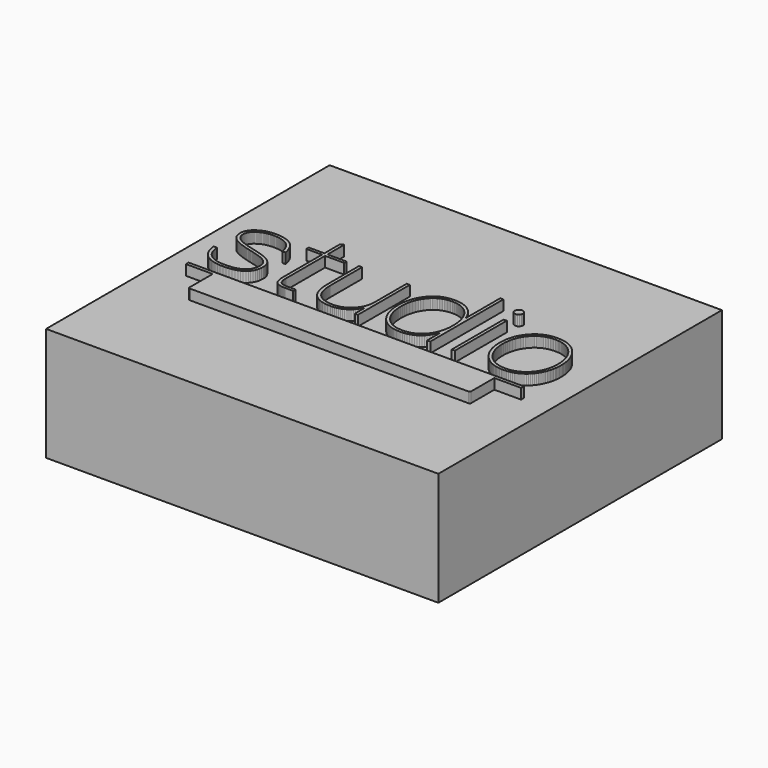
from build123d import *

# Parameters (mm, degrees)
F0_W     = 0.903268
F0_H     = 18.857183
F1_DEPTH = 3
F2_W     = 114
F2_H     = 103
F3_DEPTH = 33


with BuildPart() as f1:
    # F0 (on Top) → F1 (new body)
    with BuildSketch(Plane.XY):
        Polygon((-23.683748, -6.406338), (-23.533256, -6.406338), (-21.275875, -6.406338), (-21.275875, -5.530917), (-23.533256, -5.530917), (-23.683748, -5.530917), (-23.88395, -5.528353), (-24.075328, -5.52066), (-24.257882, -5.507837), (-24.431612, -5.489886), (-24.596519, -5.466806), (-24.752604, -5.438597), (-24.899865, -5.405258), (-25.038304, -5.36679), (-25.167921, -5.323192), (-25.288717, -5.274465), (-25.40069, -5.220609), (-25.503843, -5.161623), (-25.598175, -5.097507), (-25.683686, -5.028261), (-25.760376, -4.953885), (-25.828247, -4.87438), (-25.8966, -4.788462), (-25.960544, -4.694852), (-26.020081, -4.593548), (-26.075208, -4.484551), (-26.125927, -4.36786), (-26.172237, -4.243476), (-26.214137, -4.111398), (-26.251628, -3.971626), (-26.284709, -3.824161), (-26.31338, -3.669002), (-26.337641, -3.506149), (-26.357492, -3.335601), (-26.372931, -3.15736), (-26.38396, -2.971424), (-26.390577, -2.777794), (-26.392783, -2.57647), (-26.392783, -1.691977), (-26.392783, 11.575425), (-20.824488, 11.575425), (-20.824488, 12.450845), (-26.392783, 12.450845), (-26.392783, 18.542096), (-27.295556, 18.140912), (-27.295556, 12.450845), (-31.847923, 12.450845), (-31.847923, 11.575425), (-27.295556, 11.575425), (-27.295556, -1.691977), (-27.295556, -2.57647), (-27.292913, -2.811978), (-27.284981, -3.039739), (-27.271761, -3.2597), (-27.253253, -3.471807), (-27.229454, -3.676007), (-27.200365, -3.872247), (-27.165985, -4.060472), (-27.126313, -4.24063), (-27.081349, -4.412666), (-27.031092, -4.576528), (-26.975541, -4.732161), (-26.914696, -4.879513), (-26.848557, -5.018529), (-26.777121, -5.149157), (-26.700389, -5.271342), (-26.618361, -5.385032), (-26.514306, -5.504696), (-26.399672, -5.617415), (-26.274458, -5.723081), (-26.138664, -5.821588), (-25.992289, -5.912829), (-25.835333, -5.996697), (-25.667796, -6.073085), (-25.489677, -6.141887), (-25.300976, -6.202994), (-25.101693, -6.256301), (-24.891827, -6.3017), (-24.671379, -6.339084), (-24.440347, -6.368347), (-24.198731, -6.389382), (-23.946532, -6.402081), align=None)
        Polygon((-16.347476, 0.88863), (-16.347476, 12.450845), (-17.250524, 12.450845), (-17.250524, 0.88863), (-17.222729, -0.052571), (-17.139269, -0.933824), (-17.000034, -1.755021), (-16.804914, -2.516055), (-16.553798, -3.21682), (-16.246576, -3.85721), (-15.883136, -4.437116), (-15.46337, -4.956433), (-14.987166, -5.415054), (-14.454414, -5.812872), (-13.865003, -6.14978), (-13.218823, -6.425671), (-12.515763, -6.640439), (-11.755713, -6.793977), (-10.938563, -6.886178), (-10.064202, -6.916935), (-9.502528, -6.900283), (-8.960198, -6.850398), (-8.437155, -6.767388), (-7.933343, -6.651357), (-7.448707, -6.502415), (-6.98319, -6.320666), (-6.536738, -6.106219), (-6.109294, -5.859179), (-5.700802, -5.579654), (-5.311206, -5.267751), (-4.940451, -4.923575), (-4.588481, -4.547234), (-4.255239, -4.138835), (-3.940671, -3.698484), (-3.64472, -3.226289), (-3.36733, -2.722355), (-3.36733, -6.406338), (-2.464611, -6.406338), (-2.464611, 12.450845), (-3.36733, 12.450845), (-3.36733, 1.748036), (-3.36733, 1.034515), (-3.374829, 0.64898), (-3.397325, 0.272047), (-3.434817, -0.096232), (-3.487302, -0.455802), (-3.554779, -0.80661), (-3.637247, -1.148604), (-3.734703, -1.481729), (-3.847146, -1.805932), (-3.974575, -2.12116), (-4.116987, -2.427359), (-4.274382, -2.724476), (-4.446756, -3.012457), (-4.63411, -3.291249), (-4.836441, -3.560799), (-5.053747, -3.821052), (-5.286026, -4.071957), (-5.529842, -4.310465), (-5.781481, -4.533585), (-6.040832, -4.741318), (-6.307786, -4.933663), (-6.582232, -5.11062), (-6.864061, -5.27219), (-7.153163, -5.418372), (-7.449427, -5.549167), (-7.752745, -5.664574), (-8.063004, -5.764593), (-8.380097, -5.849225), (-8.703912, -5.918469), (-9.034341, -5.972326), (-9.371271, -6.010795), (-9.714595, -6.033876), (-10.064202, -6.04157), (-10.466344, -6.034312), (-10.854486, -6.012576), (-11.228738, -5.976413), (-11.58921, -5.925877), (-11.936014, -5.861023), (-12.269258, -5.781903), (-12.589053, -5.68857), (-12.89551, -5.581079), (-13.188739, -5.459482), (-13.46885, -5.323834), (-13.735954, -5.174186), (-13.990161, -5.010594), (-14.23158, -4.83311), (-14.460323, -4.641788), (-14.6765, -4.436681), (-14.880221, -4.217842), (-15.057881, -3.992591), (-15.224083, -3.75457), (-15.378824, -3.503833), (-15.522106, -3.240433), (-15.653928, -2.964424), (-15.774289, -2.675858), (-15.883189, -2.37479), (-15.980628, -2.061272), (-16.066604, -1.735359), (-16.141119, -1.397103), (-16.204171, -1.046558), (-16.255759, -0.683778), (-16.295885, -0.308816), (-16.324546, 0.078275), (-16.341743, 0.477442), align=None)
        Polygon((17.664067, -1.555165), (17.664067, -6.406338), (18.566841, -6.406338), (18.566841, 20.146997), (17.664067, 20.146997), (17.664067, 7.563476), (17.40349, 8.219134), (17.115526, 8.832107), (16.800118, 9.402447), (16.457212, 9.930208), (16.086751, 10.415444), (15.68868, 10.858206), (15.262942, 11.258548), (14.809483, 11.616524), (14.328246, 11.932186), (13.819176, 12.205587), (13.282217, 12.436781), (12.717313, 12.625821), (12.124408, 12.772759), (11.503446, 12.877649), (10.854373, 12.940545), (10.177131, 12.961498), (9.675851, 12.949521), (9.187851, 12.913553), (8.713188, 12.853542), (8.251915, 12.769433), (7.804089, 12.661174), (7.369763, 12.528711), (6.948993, 12.371991), (6.541834, 12.19096), (6.148341, 11.985565), (5.768569, 11.755752), (5.402572, 11.501468), (5.050406, 11.222659), (4.712126, 10.919272), (4.387786, 10.591254), (4.077442, 10.238552), (3.781148, 9.861111), (3.521917, 9.514018), (3.280203, 9.156564), (3.055895, 8.788644), (2.848885, 8.410148), (2.659062, 8.02097), (2.486319, 7.621001), (2.330546, 7.210134), (2.191634, 6.788262), (2.069473, 6.355277), (1.963954, 5.911072), (1.874969, 5.455538), (1.802407, 4.988569), (1.746161, 4.510056), (1.70612, 4.019893), (1.682175, 3.517971), (1.674218, 3.004183), (1.682166, 2.489973), (1.706047, 1.986876), (1.745914, 1.494893), (1.801821, 1.014024), (1.873824, 0.544268), (1.961976, 0.085626), (2.066331, -0.361902), (2.186944, -0.798317), (2.323869, -1.223619), (2.47716, -1.637806), (2.646872, -2.04088), (2.833058, -2.43284), (3.035773, -2.813687), (3.255071, -3.18342), (3.491006, -3.54204), (3.743633, -3.889546), (4.033235, -4.254146), (4.337837, -4.59561), (4.657437, -4.913884), (4.992036, -5.208915), (5.341633, -5.48065), (5.70623, -5.729035), (6.085825, -5.954017), (6.48042, -6.155543), (6.890013, -6.333559), (7.314605, -6.488013), (7.754195, -6.618851), (8.208785, -6.726019), (8.678373, -6.809465), (9.16296, -6.869135), (9.662546, -6.904976), (10.177131, -6.916935), (10.847769, -6.895991), (11.491119, -6.833158), (12.107237, -6.728436), (12.696179, -6.581825), (13.258002, -6.393325), (13.79276, -6.162936), (14.300509, -5.890659), (14.781306, -5.576493), (15.235205, -5.220438), (15.662263, -4.822494), (16.062536, -4.382661), (16.436079, -3.900939), (16.782948, -3.377329), (17.103198, -2.81183), (17.396886, -2.204442), align=None)
        Polygon((4.263808, 9.037247), (4.496182, 9.350513), (4.756723, 9.681776), (5.03038, 9.991666), (5.317044, 10.280184), (5.616603, 10.54733), (5.928948, 10.793104), (6.253968, 11.017506), (6.591555, 11.220536), (6.941597, 11.402193), (7.303985, 11.562479), (7.678608, 11.701394), (8.065357, 11.818936), (8.464121, 11.915107), (8.874791, 11.989907), (9.297256, 12.043335), (9.731406, 12.075392), (10.177131, 12.086078), (10.61583, 12.075811), (11.043065, 12.044974), (11.458834, 11.993513), (11.863138, 11.921376), (12.255977, 11.828508), (12.637351, 11.714857), (13.007259, 11.580368), (13.365703, 11.424988), (13.712682, 11.248664), (14.048195, 11.051341), (14.372244, 10.832968), (14.684827, 10.593489), (14.985946, 10.332852), (15.275599, 10.051003), (15.553787, 9.747889), (15.82051, 9.423456), (16.039572, 9.116983), (16.245308, 8.799402), (16.437608, 8.470713), (16.616361, 8.130915), (16.781454, 7.780006), (16.932776, 7.417987), (17.070216, 7.044856), (17.193662, 6.660613), (17.303002, 6.265257), (17.398126, 5.858787), (17.478921, 5.441203), (17.545276, 5.012503), (17.59708, 4.572688), (17.634221, 4.121756), (17.656587, 3.659707), (17.664067, 3.186539), (17.664067, 3.154624), (17.664067, 3.122708), (17.664067, 3.090792), (17.664067, 3.058876), (17.664067, 3.02696), (17.664067, 2.995045), (17.664067, 2.963129), (17.664067, 2.931213), (17.664067, 2.899297), (17.664067, 2.867381), (17.664067, 2.835466), (17.664067, 2.80355), (17.664067, 2.771634), (17.664067, 2.739718), (17.664067, 2.707802), (17.664067, 2.675887), (17.656578, 2.215966), (17.634147, 1.766302), (17.596832, 1.326897), (17.544689, 0.897749), (17.477774, 0.47886), (17.396145, 0.070229), (17.299856, -0.328143), (17.188966, -0.716257), (17.063529, -1.094112), (16.923604, -1.461708), (16.769246, -1.819045), (16.600511, -2.166122), (16.417457, -2.50294), (16.220139, -2.829498), (16.008615, -3.145797), (15.782941, -3.451835), (15.523243, -3.76343), (15.251971, -4.055309), (14.969014, -4.327419), (14.674261, -4.579708), (14.367603, -4.812121), (14.048929, -5.024604), (13.71813, -5.217106), (13.375096, -5.389571), (13.019715, -5.541946), (12.651879, -5.674178), (12.271478, -5.786214), (11.8784, -5.877999), (11.472537, -5.949481), (11.053778, -6.000606), (10.622013, -6.03132), (10.177131, -6.04157), (9.724793, -6.030902), (9.284857, -5.998968), (8.857375, -5.945875), (8.442402, -5.871731), (8.039993, -5.776642), (7.650201, -5.660715), (7.27308, -5.524058), (6.908685, -5.366776), (6.557069, -5.188977), (6.218286, -4.990769), (5.892391, -4.772257), (5.579437, -4.533549), (5.279479, -4.274751), (4.99257, -3.995972), (4.718765, -3.697317), (4.458118, -3.378893), (4.226253, -3.05916), (4.010135, -2.729115), (3.809653, -2.388706), (3.624701, -2.037879), (3.455168, -1.676579), (3.300948, -1.304755), (3.16193, -0.922351), (3.038007, -0.529314), (2.92907, -0.125592), (2.83501, 0.288871), (2.755718, 0.714127), (2.691087, 1.15023), (2.641008, 1.597233), (2.605371, 2.055191), (2.584068, 2.524156), (2.576992, 3.004183), (2.58449, 3.484192), (2.606986, 3.953088), (2.644477, 4.41087), (2.696964, 4.857539), (2.764446, 5.293093), (2.846921, 5.717533), (2.94439, 6.130858), (3.056851, 6.533066), (3.184304, 6.924159), (3.326748, 7.304135), (3.484182, 7.672994), (3.656606, 8.030735), (3.844019, 8.377358), (4.046419, 8.712862), align=None, mode=Mode.SUBTRACT)
        Polygon((24.154887, 17.879896), (24.060298, 17.411377), (24.154887, 16.942858), (24.412842, 16.56026), (24.79544, 16.302305), (25.263959, 16.207715), (25.732479, 16.302305), (26.115077, 16.56026), (26.373031, 16.942858), (26.467621, 17.411377), (26.373031, 17.879896), (26.115077, 18.262494), (25.732479, 18.520449), (25.263959, 18.615039), (24.79544, 18.520449), (24.412842, 18.262494), align=None)
        with Locations((25.263685, 3.022253)):
            Rectangle(F0_W, F0_H)
        Polygon((41.099176, -19.788026), (41.108342, -19.697807), (41.108342, -11.315568), (48.903079, -11.315568), (48.903079, -10.342433), (-48.525953, -10.342433), (-48.525953, -11.315568), (-40.731263, -11.315568), (-40.731263, -19.697807), (-40.722095, -19.788026), (-40.69582, -19.872198), (-40.654279, -19.948481), (-40.599316, -20.015029), (-40.532771, -20.069999), (-40.456488, -20.111546), (-40.372308, -20.137827), (-40.282073, -20.146997), (40.659145, -20.146997), (40.749396, -20.137827), (40.833584, -20.111546), (40.909869, -20.069999), (40.976412, -20.015029), (41.031371, -19.948481), (41.072906, -19.872198), align=None)
        Polygon((47.088634, 9.477155), (46.821855, 9.824639), (46.504448, 10.2085), (46.173044, 10.566821), (45.827754, 10.89971), (45.468686, 11.207273), (45.09595, 11.489616), (44.709655, 11.746848), (44.30991, 11.979074), (43.896824, 12.186401), (43.470507, 12.368937), (43.031068, 12.526788), (42.578616, 12.660061), (42.11326, 12.768863), (41.635109, 12.853301), (41.144274, 12.913482), (40.640862, 12.949512), (40.124984, 12.961498), (39.603007, 12.949512), (39.095069, 12.913482), (38.601117, 12.853301), (38.121097, 12.768863), (37.654956, 12.660061), (37.202639, 12.526788), (36.764095, 12.368937), (36.339269, 12.186401), (35.928108, 11.979074), (35.530559, 11.746848), (35.146567, 11.489616), (34.776081, 11.207273), (34.419045, 10.89971), (34.075408, 10.566821), (33.745115, 10.2085), (33.428112, 9.824639), (33.155153, 9.477155), (32.900612, 9.118669), (32.664378, 8.749288), (32.446339, 8.369118), (32.246384, 7.978265), (32.064402, 7.576836), (31.90028, 7.164937), (31.753908, 6.742673), (31.625174, 6.310151), (31.513966, 5.867477), (31.420173, 5.414757), (31.343684, 4.952098), (31.284386, 4.479604), (31.242169, 3.997383), (31.21692, 3.505541), (31.208528, 3.004183), (31.21692, 2.509624), (31.242169, 2.024416), (31.284386, 1.548505), (31.343684, 1.081838), (31.420173, 0.624361), (31.513966, 0.176021), (31.625174, -0.263236), (31.753908, -0.693462), (31.90028, -1.114712), (32.064402, -1.527039), (32.246384, -1.930496), (32.446339, -2.325136), (32.664378, -2.711014), (32.900612, -3.088182), (33.155153, -3.456694), (33.428112, -3.816603), (33.745115, -4.188033), (34.075408, -4.536273), (34.419045, -4.861216), (34.776081, -5.162756), (35.146567, -5.440786), (35.530559, -5.695199), (35.928108, -5.925889), (36.339269, -6.132748), (36.764095, -6.315671), (37.202639, -6.47455), (37.654956, -6.609279), (38.121097, -6.719751), (38.601117, -6.805859), (39.095069, -6.867497), (39.603007, -6.904558), (40.124984, -6.916935), (40.640862, -6.904558), (41.144274, -6.867497), (41.635109, -6.805859), (42.11326, -6.719751), (42.578616, -6.609279), (43.031068, -6.47455), (43.470507, -6.315671), (43.896824, -6.132748), (44.30991, -5.925889), (44.709655, -5.695199), (45.09595, -5.440786), (45.468686, -5.162756), (45.827754, -4.861216), (46.173044, -4.536273), (46.504448, -4.188033), (46.821855, -3.816603), (47.088634, -3.456694), (47.338587, -3.088182), (47.571662, -2.711014), (47.787805, -2.325136), (47.986963, -1.930496), (48.169083, -1.527039), (48.334111, -1.114712), (48.481994, -0.693462), (48.612679, -0.263236), (48.726112, 0.176021), (48.82224, 0.624361), (48.901009, 1.081838), (48.962368, 1.548505), (49.006261, 2.024416), (49.032636, 2.509624), (49.041439, 3.004183), (49.032636, 3.505541), (49.006261, 3.997383), (48.962368, 4.479604), (48.901009, 4.952098), (48.82224, 5.414757), (48.726112, 5.867477), (48.612679, 6.310151), (48.481994, 6.742673), (48.334111, 7.164937), (48.169083, 7.576836), (47.986963, 7.978265), (47.787805, 8.369118), (47.571662, 8.749288), (47.338587, 9.118669), align=None)
        Polygon((33.897043, 8.994374), (34.143147, 9.314042), (34.424396, 9.651724), (34.718, 9.967233), (35.023958, 10.260622), (35.342268, 10.531944), (35.67293, 10.781253), (36.015942, 11.008602), (36.371302, 11.214044), (36.739008, 11.397634), (37.119061, 11.559425), (37.511457, 11.69947), (37.916197, 11.817823), (38.333277, 11.914538), (38.762698, 11.989667), (39.204457, 12.043264), (39.658552, 12.075383), (40.124984, 12.086078), (40.584812, 12.075383), (41.033187, 12.043264), (41.470108, 11.989667), (41.895575, 11.914538), (42.309585, 11.817823), (42.712139, 11.69947), (43.103236, 11.559425), (43.482874, 11.397634), (43.851053, 11.214044), (44.207771, 11.008602), (44.553029, 10.781253), (44.886824, 10.531944), (45.209157, 10.260622), (45.520026, 9.967233), (45.819431, 9.651724), (46.10737, 9.314042), (46.353377, 8.994374), (46.583508, 8.664495), (46.797761, 8.324458), (46.996139, 7.974318), (47.178642, 7.614129), (47.345271, 7.243943), (47.496027, 6.863816), (47.63091, 6.473801), (47.749922, 6.073951), (47.853063, 5.664322), (47.940334, 5.244967), (48.011735, 4.815939), (48.067269, 4.377293), (48.106934, 3.929082), (48.130733, 3.471361), (48.138666, 3.004183), (48.130733, 2.543416), (48.106934, 2.091306), (48.067269, 1.64796), (48.011735, 1.213485), (47.940334, 0.787987), (47.853063, 0.371572), (47.749922, -0.035651), (47.63091, -0.433577), (47.496027, -0.822099), (47.345271, -1.201111), (47.178642, -1.570505), (46.996139, -1.930174), (46.797761, -2.280014), (46.583508, -2.619915), (46.353377, -2.949773), (46.10737, -3.269479), (45.819431, -3.601152), (45.520026, -3.912202), (45.209157, -4.202521), (44.886824, -4.472004), (44.553029, -4.720542), (44.207771, -4.948029), (43.851053, -5.154358), (43.482874, -5.339423), (43.103236, -5.503115), (42.712139, -5.645329), (42.309585, -5.765957), (41.895575, -5.864893), (41.470108, -5.942029), (41.033187, -5.997258), (40.584812, -6.030474), (40.124984, -6.04157), (39.658552, -6.030474), (39.204457, -5.997258), (38.762698, -5.942029), (38.333277, -5.864893), (37.916197, -5.765957), (37.511457, -5.645329), (37.119061, -5.503115), (36.739008, -5.339423), (36.371302, -5.154358), (36.015942, -4.948029), (35.67293, -4.720542), (35.342268, -4.472004), (35.023958, -4.202521), (34.718, -3.912202), (34.424396, -3.601152), (34.143147, -3.269479), (33.897043, -2.949773), (33.666828, -2.619915), (33.452501, -2.280014), (33.25406, -1.930174), (33.071504, -1.570505), (32.904831, -1.201111), (32.754038, -0.822099), (32.619126, -0.433577), (32.500092, -0.035651), (32.396934, 0.371572), (32.309651, 0.787987), (32.238241, 1.213485), (32.182703, 1.64796), (32.143035, 2.091306), (32.119235, 2.543416), (32.111302, 3.004183), (32.119235, 3.471361), (32.143035, 3.929082), (32.182703, 4.377293), (32.238241, 4.815939), (32.309651, 5.244967), (32.396934, 5.664322), (32.500092, 6.073951), (32.619126, 6.473801), (32.754038, 6.863816), (32.904831, 7.243943), (33.071504, 7.614129), (33.25406, 7.974318), (33.452501, 8.324458), (33.666828, 8.664495), align=None, mode=Mode.SUBTRACT)
        Polygon((-48.053229, -0.963328), (-48.100876, -0.606857), (-49.041439, -0.606857), (-48.93167, -1.368968), (-48.771636, -2.082296), (-48.561336, -2.74679), (-48.300771, -3.362395), (-47.989941, -3.929058), (-47.628848, -4.446727), (-47.217492, -4.915346), (-46.755874, -5.334864), (-46.243993, -5.705226), (-45.681852, -6.02638), (-45.06945, -6.298272), (-44.406788, -6.520848), (-43.693867, -6.694056), (-42.930688, -6.817842), (-42.11725, -6.892153), (-41.253555, -6.916935), (-40.365135, -6.895145), (-39.534035, -6.82981), (-38.760256, -6.720983), (-38.043797, -6.568718), (-37.384657, -6.373068), (-36.782836, -6.134087), (-36.238334, -5.851828), (-35.75115, -5.526345), (-35.321283, -5.15769), (-34.948733, -4.745918), (-34.633501, -4.291082), (-34.375584, -3.793235), (-34.174983, -3.252431), (-34.031697, -2.668723), (-33.945726, -2.042164), (-33.917069, -1.372808), (-33.926327, -1.082994), (-33.954103, -0.801675), (-34.000396, -0.528798), (-34.065207, -0.264311), (-34.148536, -0.008158), (-34.250383, 0.239711), (-34.370747, 0.479353), (-34.50963, 0.710819), (-34.667032, 0.934163), (-34.842952, 1.149439), (-35.037391, 1.356699), (-35.250348, 1.555998), (-35.481825, 1.747389), (-35.731821, 1.930926), (-36.000336, 2.106661), (-36.287371, 2.274648), (-36.466361, 2.371241), (-36.664633, 2.469491), (-36.88208, 2.569343), (-37.118591, 2.670744), (-37.374058, 2.773642), (-37.648371, 2.877981), (-37.941421, 2.98371), (-38.253098, 3.090775), (-38.583294, 3.199121), (-38.9319, 3.308697), (-39.298805, 3.419448), (-39.6839, 3.531321), (-40.087077, 3.644262), (-40.508227, 3.758218), (-40.947239, 3.873136), (-41.404004, 3.988962), (-41.777862, 4.084692), (-42.137561, 4.180314), (-42.483044, 4.275723), (-42.814256, 4.370812), (-43.131142, 4.465473), (-43.433645, 4.5596), (-43.721711, 4.653086), (-43.995284, 4.745823), (-44.254307, 4.837706), (-44.498726, 4.928628), (-44.728485, 5.01848), (-44.943529, 5.107158), (-45.143801, 5.194553), (-45.329246, 5.28056), (-45.499809, 5.36507), (-45.655433, 5.447978), (-45.887345, 5.58691), (-46.1035, 5.730225), (-46.304007, 5.878028), (-46.488977, 6.030424), (-46.658519, 6.187522), (-46.812743, 6.349427), (-46.951758, 6.516245), (-47.075675, 6.688083), (-47.184602, 6.865047), (-47.27865, 7.047244), (-47.357928, 7.23478), (-47.422546, 7.427761), (-47.472613, 7.626293), (-47.50824, 7.830484), (-47.529536, 8.040439), (-47.53661, 8.256265), (-47.530419, 8.458889), (-47.511772, 8.656491), (-47.48056, 8.849175), (-47.436672, 9.037051), (-47.379998, 9.220224), (-47.310429, 9.398802), (-47.227855, 9.572892), (-47.132165, 9.7426), (-47.02325, 9.908033), (-46.900999, 10.069299), (-46.765303, 10.226503), (-46.616051, 10.379754), (-46.453134, 10.529158), (-46.276442, 10.674823), (-46.085864, 10.816854), (-45.881292, 10.955359), (-45.673583, 11.094291), (-45.459652, 11.223872), (-45.239443, 11.344154), (-45.0129, 11.455192), (-44.779969, 11.557039), (-44.540594, 11.649749), (-44.294721, 11.733375), (-44.042293, 11.807971), (-43.783256, 11.87359), (-43.517555, 11.930285), (-43.245134, 11.978112), (-42.965938, 12.017122), (-42.679912, 12.047371), (-42.387001, 12.06891), (-42.087149, 12.081795), (-41.780301, 12.086078), (-41.418313, 12.08094), (-41.066029, 12.065491), (-40.723449, 12.039678), (-40.390571, 12.003446), (-40.067396, 11.956742), (-39.753922, 11.899513), (-39.450149, 11.831705), (-39.156075, 11.753264), (-38.871701, 11.664137), (-38.597024, 11.56427), (-38.332044, 11.453609), (-38.076761, 11.332102), (-37.831173, 11.199694), (-37.59528, 11.056332), (-37.369081, 10.901962), (-37.152575, 10.736531), (-36.980189, 10.582212), (-36.815741, 10.420092), (-36.659232, 10.250064), (-36.510661, 10.072023), (-36.370027, 9.885861), (-36.23733, 9.691473), (-36.112569, 9.488752), (-35.995745, 9.277591), (-35.886857, 9.057884), (-35.785904, 8.829525), (-35.692886, 8.592406), (-35.607803, 8.346423), (-35.530654, 8.091467), (-35.461439, 7.827434), (-35.400157, 7.554215), (-35.346808, 7.271706), (-34.443754, 7.271706), (-34.578252, 7.960692), (-34.755953, 8.60523), (-34.976857, 9.205319), (-35.240966, 9.760959), (-35.548279, 10.27215), (-35.898796, 10.738891), (-36.292519, 11.161182), (-36.729447, 11.539022), (-37.20958, 11.872412), (-37.73292, 12.161352), (-38.299466, 12.405839), (-38.909218, 12.605876), (-39.562178, 12.76146), (-40.258345, 12.872592), (-40.997719, 12.939271), (-41.780301, 12.961498), (-42.1158, 12.956778), (-42.445132, 12.942548), (-42.768295, 12.918699), (-43.08529, 12.885127), (-43.396115, 12.841723), (-43.70077, 12.788382), (-43.999253, 12.724995), (-44.291564, 12.651458), (-44.577702, 12.567662), (-44.857667, 12.473501), (-45.131457, 12.368869), (-45.399072, 12.253658), (-45.660511, 12.127762), (-45.915773, 11.991073), (-46.164857, 11.843486), (-46.407763, 11.684894), (-46.653822, 11.517351), (-46.884003, 11.343077), (-47.098306, 11.162178), (-47.296733, 10.974761), (-47.479283, 10.780934), (-47.645957, 10.580802), (-47.796756, 10.374473), (-47.931679, 10.162054), (-48.050727, 9.943651), (-48.153901, 9.719371), (-48.2412, 9.489321), (-48.312626, 9.253609), (-48.368179, 9.01234), (-48.407859, 8.765622), (-48.431667, 8.513561), (-48.439603, 8.256265), (-48.431224, 7.986177), (-48.406087, 7.722976), (-48.364194, 7.466715), (-48.305544, 7.217449), (-48.23014, 6.975232), (-48.137981, 6.740117), (-48.029069, 6.512159), (-47.903405, 6.29141), (-47.760989, 6.077925), (-47.601823, 5.871758), (-47.425907, 5.672962), (-47.233241, 5.481592), (-47.023828, 5.297701), (-46.797668, 5.121342), (-46.554761, 4.952571), (-46.295109, 4.79144), (-46.124464, 4.694855), (-45.937124, 4.596668), (-45.733143, 4.496985), (-45.512576, 4.395913), (-45.275477, 4.293559), (-45.021902, 4.19003), (-44.751906, 4.085431), (-44.465543, 3.979872), (-44.162868, 3.873457), (-43.843936, 3.766295), (-43.508801, 3.658491), (-43.15752, 3.550153), (-42.790146, 3.441388), (-42.406734, 3.332303), (-42.00734, 3.223003), (-41.592018, 3.113597), (-41.150675, 2.998625), (-40.729561, 2.886272), (-40.328621, 2.77659), (-39.947799, 2.669632), (-39.587041, 2.565452), (-39.246289, 2.464104), (-38.92549, 2.365641), (-38.624587, 2.270116), (-38.343525, 2.177583), (-38.082249, 2.088096), (-37.840703, 2.001706), (-37.618832, 1.918469), (-37.41658, 1.838438), (-37.233892, 1.761665), (-37.070713, 1.688205), (-36.926986, 1.61811), (-36.680507, 1.484742), (-36.449136, 1.344481), (-36.232983, 1.197274), (-36.032157, 1.043067), (-35.846768, 0.881807), (-35.676925, 0.713441), (-35.522737, 0.537915), (-35.384315, 0.355176), (-35.261768, 0.16517), (-35.155205, -0.032155), (-35.064736, -0.236853), (-34.990471, -0.448978), (-34.932518, -0.668583), (-34.890988, -0.89572), (-34.865989, -1.130444), (-34.857632, -1.372808), (-34.882753, -1.93616), (-34.958082, -2.463554), (-35.083562, -2.954937), (-35.259138, -3.410255), (-35.484756, -3.829456), (-35.760361, -4.212484), (-36.085897, -4.559288), (-36.461309, -4.869814), (-36.886543, -5.144007), (-37.361543, -5.381815), (-37.886255, -5.583184), (-38.460623, -5.74806), (-39.084592, -5.87639), (-39.758107, -5.968121), (-40.481113, -6.023199), (-41.253555, -6.04157), (-41.642433, -6.036868), (-42.018966, -6.022762), (-42.383154, -5.999252), (-42.734996, -5.966339), (-43.074491, -5.924021), (-43.40164, -5.8723), (-43.716441, -5.811176), (-44.018894, -5.740648), (-44.309, -5.660716), (-44.586756, -5.571382), (-44.852164, -5.472644), (-45.105221, -5.364503), (-45.345929, -5.246958), (-45.574286, -5.120011), (-45.790292, -4.983661), (-45.993946, -4.837908), (-46.21353, -4.667365), (-46.420878, -4.484053), (-46.616102, -4.288026), (-46.799311, -4.079337), (-46.970616, -3.858039), (-47.130127, -3.624186), (-47.277955, -3.377831), (-47.414211, -3.119028), (-47.539003, -2.84783), (-47.652444, -2.56429), (-47.754643, -2.268461), (-47.845711, -1.960397), (-47.925757, -1.640151), (-47.994893, -1.307777), align=None)
    extrude(amount=F1_DEPTH)

    # F2 (on face) → F3 (join)
    with BuildSketch(Plane(origin=(0, 0, 0), x_dir=(1, 0, 0), z_dir=(0, 0, -1))):
        Rectangle(F2_W, F2_H)
    extrude(amount=F3_DEPTH)


solid = f1.part
